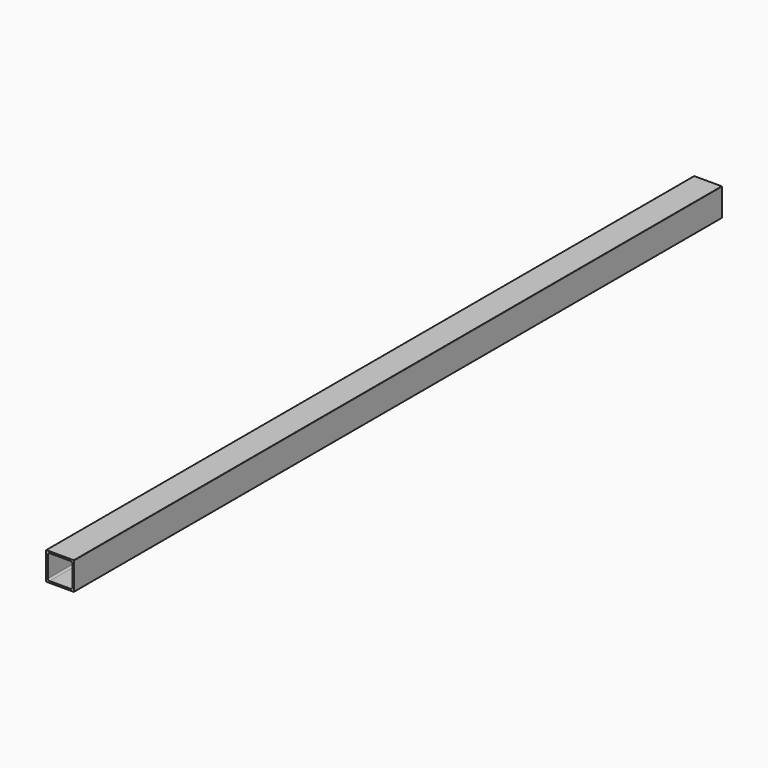
from build123d import *

# Parameters (mm, degrees)
F0_W     = 25.4
F0_H     = 25.4
F1_DEPTH = 736.6
F2_W     = 22.2504
F2_H     = 22.2504
F3_DEPTH = 736.6
F4_R     = 1.524
F5_R     = 0.254


with BuildPart() as f1:
    # F0 (on Front) → F1 (new body)
    with BuildSketch(Plane.XZ):
        Rectangle(F0_W, F0_H)
    extrude(amount=F1_DEPTH)

    # F2 (on face) → F3 (cut, through all)
    with BuildSketch(Plane.XZ.offset(736.6)):
        Rectangle(F2_W, F2_H)
    extrude(amount=-F3_DEPTH, mode=Mode.SUBTRACT)

    # F4
    f4_edges = [f1.edges().sort_by_distance(p)[0] for p in [
        (-11.1252, -368.3, 11.1252),
        (11.1252, -368.3, -11.1252),
        (11.1252, -368.3, 11.1252),
        (-11.1252, -368.3, -11.1252),
    ]]
    fillet(f4_edges, radius=F4_R)

    # F5
    f5_edges = [f1.edges().sort_by_distance(p)[0] for p in [
        (12.7, -368.3, 12.7),
        (12.7, -368.3, -12.7),
        (-12.7, -368.3, -12.7),
        (-12.7, -368.3, 12.7),
    ]]
    fillet(f5_edges, radius=F5_R)


solid = f1.part
